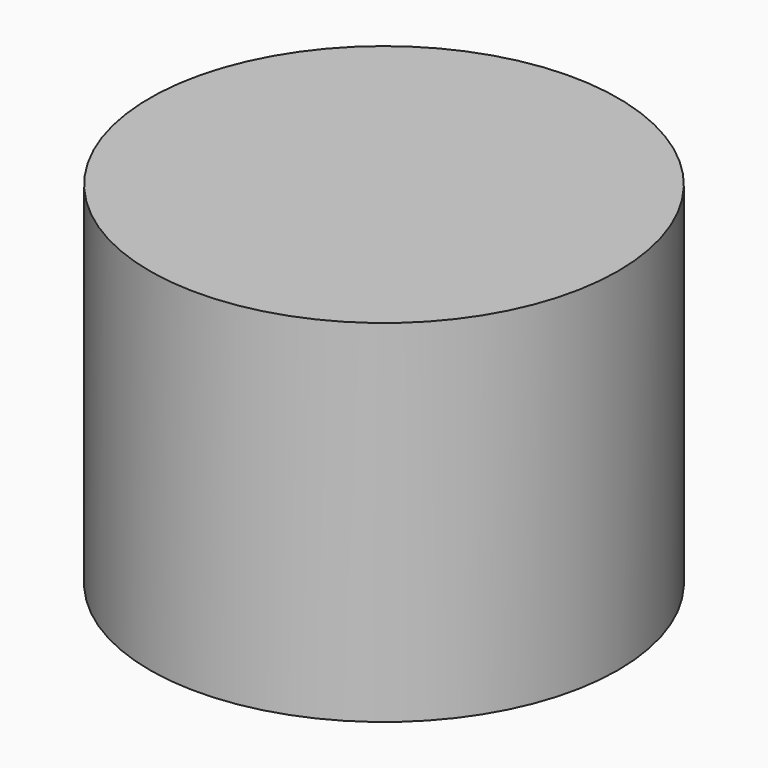
from build123d import *

# Parameters (mm, degrees)
F1_R     = 50.8
F2_DEPTH = 76.2


with BuildPart() as f2:
    # F1 (on Top) → F2 (new body)
    with BuildSketch(Plane.XY):
        with Locations((0, -0.66278)):
            Circle(F1_R)
    extrude(amount=-F2_DEPTH)


solid = f2.part
